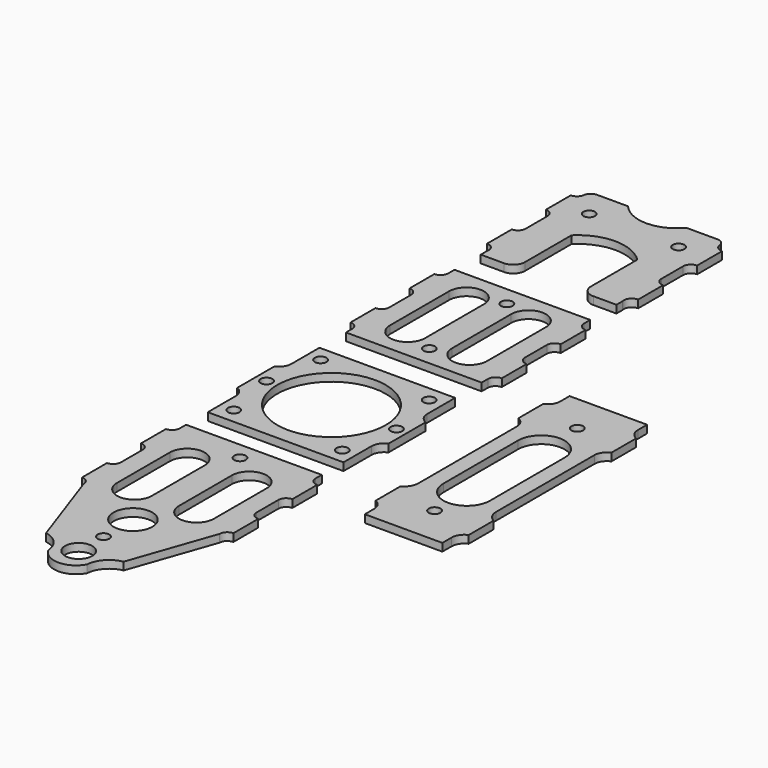
from build123d import *

# Parameters (mm, degrees)
F0_R     = 1.5
F0_R_2   = 14
F1_DEPTH = 2
F2_R     = 1.5
F3_DEPTH = 2
F4_R     = 1.5
F5_DEPTH = 2
F6_R     = 3.5
F6_R_2   = 1.5
F6_R_3   = 5
F7_DEPTH = 2
F8_R     = 1.5
F9_DEPTH = 2


with BuildPart() as f1:
    # F0 (on Top) → F1 (new body)
    with BuildSketch(Plane.XY):
        with BuildLine():
            Line((17.5, 18), (-17.5, 18))
            Line((-17.5, 18), (-17.5, 9))
            ThreePointArc((-17.5, 9), (-18.045837, 7.197224), (-19.5, 6))
            Line((-19.5, 6), (-19.5, -6))
            ThreePointArc((-19.5, -6), (-18.045837, -7.197224), (-17.5, -9))
            Line((-17.5, -9), (-17.5, -18))
            Line((-17.5, -18), (17.5, -18))
            Line((17.5, -18), (17.5, -9))
            ThreePointArc((17.5, -9), (18.045837, -7.197224), (19.5, -6))
            Line((19.5, -6), (19.5, 6))
            ThreePointArc((19.5, 6), (18.045837, 7.197224), (17.5, 9))
            Line((17.5, 9), (17.5, 18))
        make_face()
        with Locations((-14, -14)):
            Circle(F0_R, mode=Mode.SUBTRACT)
        with Locations((14, -14)):
            Circle(F0_R, mode=Mode.SUBTRACT)
        with Locations((-16.75, 0)):
            Circle(F0_R, mode=Mode.SUBTRACT)
        with Locations((-14, 14)):
            Circle(F0_R, mode=Mode.SUBTRACT)
        Circle(F0_R_2, mode=Mode.SUBTRACT)
        with Locations((16.75, 0)):
            Circle(F0_R, mode=Mode.SUBTRACT)
        with Locations((14, 14)):
            Circle(F0_R, mode=Mode.SUBTRACT)
    extrude(amount=F1_DEPTH)


with BuildPart() as f3:
    # F2 (on Top) → F3 (new body)
    with BuildSketch(Plane.XY):
        with BuildLine():
            ThreePointArc((-19.5, 49.534642), (-18.085786, 48.948855), (-17.5, 47.534642))
            Line((-17.5, 47.534642), (-17.5, 40.534642))
            ThreePointArc((-17.5, 40.534642), (-18.085786, 39.120428), (-19.5, 38.534642))
            Line((-19.5, 38.534642), (-19.5, 30.534642))
            ThreePointArc((-19.5, 30.534642), (-18.085786, 29.948855), (-17.5, 28.534642))
            Line((-17.5, 28.534642), (-17.5, 26.534642))
            Line((-17.5, 26.534642), (17.5, 26.534642))
            Line((17.5, 26.534642), (17.5, 28.534642))
            ThreePointArc((17.5, 28.534642), (18.085786, 29.948855), (19.5, 30.534642))
            Line((19.5, 30.534642), (19.5, 38.534642))
            ThreePointArc((19.5, 38.534642), (18.085786, 39.120428), (17.5, 40.534642))
            Line((17.5, 40.534642), (17.5, 47.534642))
            ThreePointArc((17.5, 47.534642), (18.085786, 48.948855), (19.5, 49.534642))
            Line((19.5, 49.534642), (19.5, 57.534642))
            ThreePointArc((19.5, 57.534642), (18.085786, 58.120428), (17.5, 59.534642))
            Line((17.5, 59.534642), (17.5, 61.534642))
            Line((17.5, 61.534642), (-17.5, 61.534642))
            Line((-17.5, 61.534642), (-17.5, 59.534642))
            ThreePointArc((-17.5, 59.534642), (-18.085786, 58.120428), (-19.5, 57.534642))
            Line((-19.5, 57.534642), (-19.5, 49.534642))
        make_face()
        with Locations((0, 31.534642)):
            Circle(F2_R, mode=Mode.SUBTRACT)
        with BuildLine():
            Line((-12.5, 34.534642), (-12.5, 53.534642))
            ThreePointArc((-12.5, 53.534642), (-8, 58.034642), (-3.5, 53.534642))
            Line((-3.5, 53.534642), (-3.5, 34.534642))
            ThreePointArc((-3.5, 34.534642), (-8, 30.034642), (-12.5, 34.534642))
        make_face(mode=Mode.SUBTRACT)
        with BuildLine():
            Line((12.5, 53.534642), (12.5, 34.534642))
            ThreePointArc((12.5, 34.534642), (8, 30.034642), (3.5, 34.534642))
            Line((3.5, 34.534642), (3.5, 53.534642))
            ThreePointArc((3.5, 53.534642), (8, 58.034642), (12.5, 53.534642))
        make_face(mode=Mode.SUBTRACT)
        with Locations((0, 56.534642)):
            Circle(F2_R, mode=Mode.SUBTRACT)
    extrude(amount=F3_DEPTH)


with BuildPart() as f5:
    # F4 (on Top) → F5 (new body)
    with BuildSketch(Plane.XY):
        with BuildLine():
            Line((-17.5, 72), (-17.5, 70))
            Line((-17.5, 70), (-11.532373, 70))
            ThreePointArc((-11.532373, 70), (-9.390145, 70.867203), (-8.5, 73))
            Line((-8.5, 73), (-8.5, 88))
            ThreePointArc((-8.5, 88), (0, 91.5), (8.5, 88))
            Line((8.5, 88), (8.5, 73))
            ThreePointArc((8.5, 73), (9.390145, 70.867203), (11.532373, 70))
            Line((11.532373, 70), (17.5, 70))
            Line((17.5, 70), (17.5, 72))
            ThreePointArc((17.5, 72), (17.874491, 73.750407), (19.5, 74.5))
            Line((19.5, 74.5), (19.5, 82.5))
            ThreePointArc((19.5, 82.5), (18.085786, 83.085786), (17.5, 84.5))
            Line((17.5, 84.5), (17.5, 91.5))
            ThreePointArc((17.5, 91.5), (18.085786, 92.914214), (19.5, 93.5))
            Line((19.5, 93.5), (19.5, 101.5))
            ThreePointArc((19.5, 101.5), (18.177562, 102.000496), (17.516624, 103.250496))
            ThreePointArc((17.516624, 103.250496), (16.855061, 104.500165), (15.532373, 105))
            Line((15.532373, 105), (7.532373, 105))
            ThreePointArc((7.532373, 105), (0, 101.5), (-7.532373, 105))
            Line((-7.532373, 105), (-15.532373, 105))
            ThreePointArc((-15.532373, 105), (-16.855061, 104.500165), (-17.516624, 103.250496))
            ThreePointArc((-17.516624, 103.250496), (-18.177562, 102.000496), (-19.5, 101.5))
            Line((-19.5, 101.5), (-19.5, 93.5))
            ThreePointArc((-19.5, 93.5), (-18.085786, 92.914214), (-17.5, 91.5))
            Line((-17.5, 91.5), (-17.5, 84.5))
            ThreePointArc((-17.5, 84.5), (-18.085786, 83.085786), (-19.5, 82.5))
            Line((-19.5, 82.5), (-19.5, 74.5))
            ThreePointArc((-19.5, 74.5), (-17.874491, 73.750407), (-17.5, 72))
        make_face()
        with Locations((-11.532373, 97.5)):
            Circle(F4_R, mode=Mode.SUBTRACT)
        with Locations((11.532373, 97.5)):
            Circle(F4_R, mode=Mode.SUBTRACT)
    extrude(amount=F5_DEPTH)


with BuildPart() as f7:
    # F6 (on Top) → F7 (new body)
    with BuildSketch(Plane.XY):
        with BuildLine():
            Line((17.5, -25), (-17.5, -25))
            Line((-17.5, -25), (-17.5, -27))
            ThreePointArc((-17.5, -27), (-18.085786, -28.414214), (-19.5, -29))
            Line((-19.5, -29), (-19.5, -37))
            ThreePointArc((-19.5, -37), (-18.085786, -37.585786), (-17.5, -39))
            Line((-17.5, -39), (-17.5, -46))
            ThreePointArc((-17.5, -46), (-18.085786, -47.414214), (-19.5, -48))
            Line((-19.5, -48), (-19.5, -56))
            ThreePointArc((-19.5, -56), (-18.085786, -56.585786), (-17.5, -58))
            Line((-17.5, -58), (-10, -79.5))
            ThreePointArc((-10, -79.5), (-6.545744, -81.382495), (-5, -85))
            ThreePointArc((-5, -85), (0, -88), (5, -85))
            ThreePointArc((5, -85), (6.545744, -81.382495), (10, -79.5))
            Line((10, -79.5), (17.5, -58))
            ThreePointArc((17.5, -58), (18.085786, -56.585786), (19.5, -56))
            Line((19.5, -56), (19.5, -48))
            ThreePointArc((19.5, -48), (18.085786, -47.414214), (17.5, -46))
            Line((17.5, -46), (17.5, -39))
            ThreePointArc((17.5, -39), (18.085786, -37.585786), (19.5, -37))
            Line((19.5, -37), (19.5, -29))
            ThreePointArc((19.5, -29), (18.085786, -28.414214), (17.5, -27))
            Line((17.5, -27), (17.5, -25))
        make_face()
        with Locations((0, -81.5)):
            Circle(F6_R, mode=Mode.SUBTRACT)
        with Locations((0, -73.5)):
            Circle(F6_R_2, mode=Mode.SUBTRACT)
        with Locations((0, -64)):
            Circle(F6_R_3, mode=Mode.SUBTRACT)
        with BuildLine():
            Line((-12.5, -53.5), (-12.5, -36.5))
            ThreePointArc((-12.5, -36.5), (-8, -32), (-3.5, -36.5))
            Line((-3.5, -36.5), (-3.5, -53.5))
            ThreePointArc((-3.5, -53.5), (-8, -58), (-12.5, -53.5))
        make_face(mode=Mode.SUBTRACT)
        with BuildLine():
            Line((3.5, -53.5), (3.5, -36.5))
            ThreePointArc((3.5, -36.5), (8, -32), (12.5, -36.5))
            Line((12.5, -36.5), (12.5, -53.5))
            ThreePointArc((12.5, -53.5), (8, -58), (3.5, -53.5))
        make_face(mode=Mode.SUBTRACT)
        with Locations((0, -29.5)):
            Circle(F6_R_2, mode=Mode.SUBTRACT)
    extrude(amount=F7_DEPTH)


with BuildPart() as f9:
    # F8 (on Top) → F9 (new body)
    with BuildSketch(Plane.XY):
        with BuildLine():
            Line((55, 33), (35, 33))
            Line((35, 33), (35, 30))
            ThreePointArc((35, 30), (34.454163, 28.197224), (33, 27))
            Line((33, 27), (33, 19))
            ThreePointArc((33, 19), (34.454163, 17.802776), (35, 16))
            Line((35, 16), (35, -15.683505))
            ThreePointArc((35, -15.683505), (34.461306, -17.619941), (33, -19))
            Line((33, -19), (33, -27))
            ThreePointArc((33, -27), (34.454163, -28.197224), (35, -30))
            Line((35, -30), (35, -33))
            Line((35, -33), (55, -33))
            Line((55, -33), (55, -30))
            ThreePointArc((55, -30), (55.545837, -28.197224), (57, -27))
            Line((57, -27), (57, -19))
            ThreePointArc((57, -19), (55.538694, -17.619941), (55, -15.683505))
            Line((55, -15.683505), (55, 16))
            ThreePointArc((55, 16), (55.545837, 17.802776), (57, 19))
            Line((57, 19), (57, 27))
            ThreePointArc((57, 27), (55.545837, 28.197224), (55, 30))
            Line((55, 30), (55, 33))
        make_face()
        with Locations((45, -23)):
            Circle(F8_R, mode=Mode.SUBTRACT)
        with BuildLine():
            Line((39, -12.621337), (39, 11.378663))
            ThreePointArc((39, 11.378663), (45, 17.378663), (51, 11.378663))
            Line((51, 11.378663), (51, -12.621337))
            ThreePointArc((51, -12.621337), (45, -18.621337), (39, -12.621337))
        make_face(mode=Mode.SUBTRACT)
        with Locations((45, 23)):
            Circle(F8_R, mode=Mode.SUBTRACT)
    extrude(amount=F9_DEPTH)


solid = Compound([f1.part, f3.part, f5.part, f7.part, f9.part])
